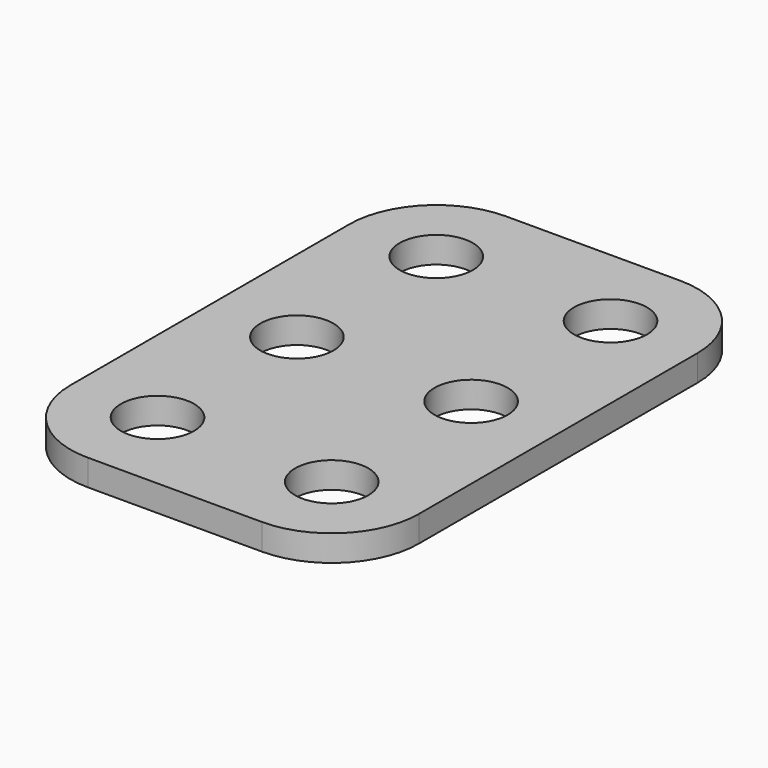
from build123d import *

# Parameters (mm, degrees)
F0_R     = 2.1
F1_DEPTH = 1.5


with BuildPart() as f1:
    # F0 (on Top) → F1 (new body)
    with BuildSketch(Plane.XY):
        with BuildLine():
            Line((-5, -15), (5, -15))
            ThreePointArc((5, -15), (8.535534, -13.535534), (10, -10))
            Line((10, -10), (10, 10))
            ThreePointArc((10, 10), (8.535534, 13.535534), (5, 15))
            Line((5, 15), (-5, 15))
            ThreePointArc((-5, 15), (-8.535534, 13.535534), (-10, 10))
            Line((-10, 10), (-10, -10))
            ThreePointArc((-10, -10), (-8.535534, -13.535534), (-5, -15))
        make_face()
        with Locations((-5, -10)):
            Circle(F0_R, mode=Mode.SUBTRACT)
        with Locations((5, -10)):
            Circle(F0_R, mode=Mode.SUBTRACT)
        with Locations((-5, 0)):
            Circle(F0_R, mode=Mode.SUBTRACT)
        with Locations((-5, 10)):
            Circle(F0_R, mode=Mode.SUBTRACT)
        with Locations((5, 0)):
            Circle(F0_R, mode=Mode.SUBTRACT)
        with Locations((5, 10)):
            Circle(F0_R, mode=Mode.SUBTRACT)
    extrude(amount=F1_DEPTH)


solid = f1.part
